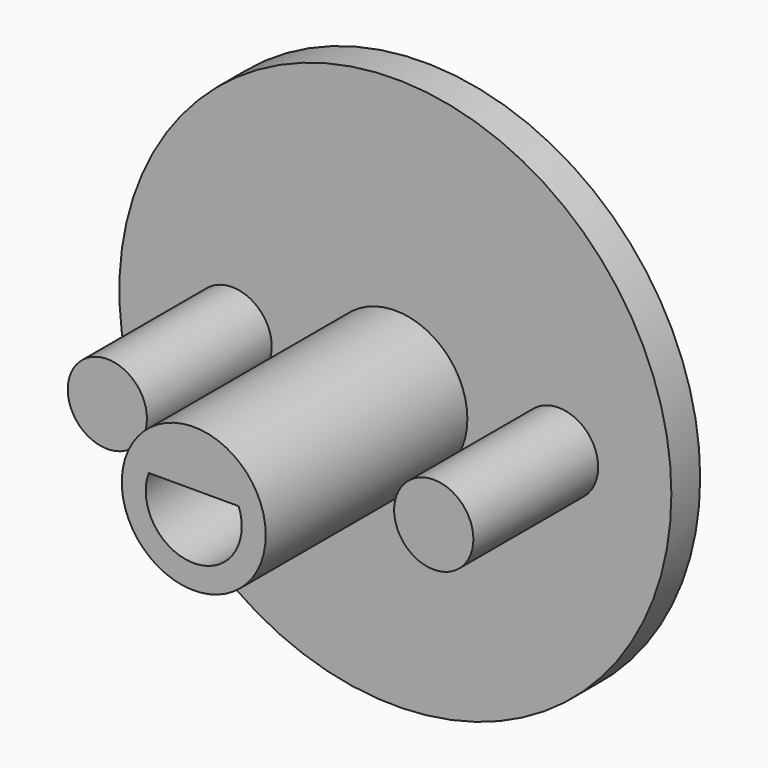
from build123d import *

# Parameters (mm, degrees)
F0_R      = 11.5
F0_R_2    = 3
F0_R_3    = 1.8
F1_DEPTH  = 1.5
F2_R      = 1.65
F2_R_2    = 3
F3_DEPTH  = 6.5
F3_FACE_R = 3
F4_DEPTH  = 4
F5_R      = 1.25
F6_DEPTH  = 2


with BuildPart() as f1:
    # F0 (on Front) → F1 (new body)
    with BuildSketch(Plane.XZ):
        Circle(F0_R)
        Circle(F0_R_2, mode=Mode.SUBTRACT)
        with Locations((6.5, 0)):
            Circle(F0_R_3, mode=Mode.SUBTRACT)
        Circle(F0_R_2)
        with Locations((6.5, 0)):
            Circle(F0_R_3)
    extrude(amount=F1_DEPTH)

    # F2 (on face) → F3 (join)
    with BuildSketch(Plane.XZ.offset(1.5)):
        with Locations((-6.8, 0)):
            Circle(F2_R)
        Circle(F2_R_2)
        with BuildLine():
            ThreePointArc((1.873499, 0.7), (1.968121, 0.355669), (2, 0))
            ThreePointArc((2, 0), (-0.355669, -1.968121), (-1.873499, 0.7))
            ThreePointArc((-1.873499, 0.7), (0, 2), (1.873499, 0.7))
        make_face(mode=Mode.SUBTRACT)
        with BuildLine():
            Line((-1.873499, 0.7), (1.873499, 0.7))
            ThreePointArc((1.873499, 0.7), (0, 2), (-1.873499, 0.7))
        make_face()
        with Locations((6.8, 0)):
            Circle(F2_R)
    extrude(amount=F3_DEPTH)

    # F3_face (on face) → F4 (join)
    with BuildSketch(Plane(origin=(0, -8, 0.227747), x_dir=(1, 0, 0), z_dir=(0, -1, 0))):
        with Locations((0, -0.227747)):
            Circle(F3_FACE_R)
        with BuildLine():
            ThreePointArc((1.873499, 0.472253), (0, -2.227747), (-1.873499, 0.472253))
            Line((-1.873499, 0.472253), (1.873499, 0.472253))
        make_face(mode=Mode.SUBTRACT)
    extrude(amount=F4_DEPTH)

    # F5 (on face) → F6 (cut)
    with BuildSketch(Plane(origin=(0, 0, 0), x_dir=(-1, 0, 0), z_dir=(0, 1, 0))):
        Circle(F5_R)
    extrude(amount=-F6_DEPTH, mode=Mode.SUBTRACT)


solid = f1.part
